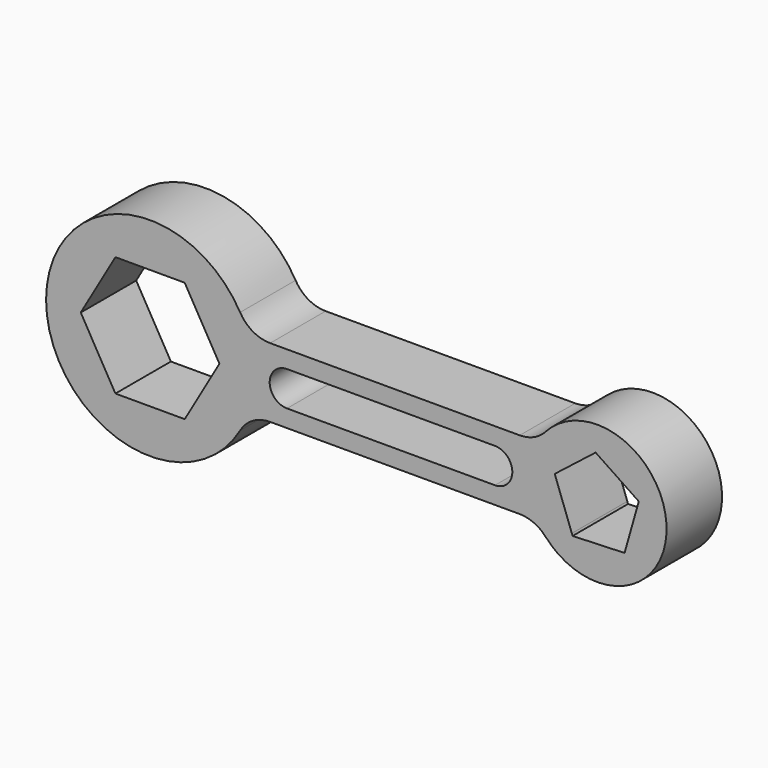
from build123d import *

# Parameters (mm, degrees)
F1_DEPTH = 25.4
F2_DEPTH = 508


with BuildPart() as f1:
    # F0 (on Front) → F1 (new body)
    with BuildSketch(Plane.XZ):
        with BuildLine():
            ThreePointArc((659.9113576837, -381), (736.0354796323, -197.2201123681), (762, 0))
            ThreePointArc((762, 0), (736.0354796323, 197.2201123681), (659.9113576837, 381))
            ThreePointArc((659.9113576837, 381), (-762, 0), (659.9113576837, -381))
        make_face()
        Polygon((-508, 0), (-254, 439.9409051225), (254, 439.9409051225), (508, 0), (254, -439.9409051225), (-254, -439.9409051225), align=None, mode=Mode.SUBTRACT)
        with BuildLine():
            ThreePointArc((659.9113576837, 381), (736.0354796323, 197.2201123681), (762, 0))
            ThreePointArc((762, 0), (736.0354796323, -197.2201123681), (659.9113576837, -381))
            ThreePointArc((659.9113576837, -381), (752.881810245, -288.0295474388), (879.881810245, -254))
            Line((879.881810245, -254), (2708.6387337151, -254))
            ThreePointArc((2708.6387337151, -254), (2812.3337994929, -276.1307839895), (2897.95915581, -338.6666666667))
            ThreePointArc((2897.95915581, -338.6666666667), (2768.6, 0), (2897.95915581, 338.6666666667))
            ThreePointArc((2897.95915581, 338.6666666667), (2812.3337994929, 276.1307839895), (2708.6387337151, 254))
            Line((2708.6387337151, 254), (1765.3, 254))
            Line((1765.3, 254), (879.881810245, 254))
            ThreePointArc((879.881810245, 254), (752.881810245, 288.0295474388), (659.9113576837, 381))
        make_face()
        with BuildLine():
            Line((1003.3, 127), (1765.3, 127))
            Line((1765.3, 127), (2527.3, 127))
            ThreePointArc((2527.3, 127), (2654.3, 0), (2527.3, -127))
            Line((2527.3, -127), (1003.3, -127))
            ThreePointArc((1003.3, -127), (876.3, 0), (1003.3, 127))
        make_face(mode=Mode.SUBTRACT)
        with BuildLine():
            ThreePointArc((2897.95915581, 338.6666666667), (2768.6, 0), (2897.95915581, -338.6666666667))
            ThreePointArc((2897.95915581, -338.6666666667), (3457.8656216047, -474.5595583531), (3784.6, 0))
            ThreePointArc((3784.6, 0), (3457.8656216047, 474.5595583531), (2897.95915581, 338.6666666667))
        make_face()
        Polygon((2997.3535592402, 0), (2964.8665166666, 88.6663506466), (3175.5526915513, 254), (3264.5957664928, 323.8755698507), (3580.9144590171, 111.4997596469), (3476.6809124478, -254.9649286515), (3095.9423453757, -269.0767514926), (3090.4182760524, -254), align=None, mode=Mode.SUBTRACT)
    extrude(amount=F1_DEPTH)

    # F0 (on Front) → F2 (join)
    with BuildSketch(Plane.XZ):
        with BuildLine():
            ThreePointArc((659.9113576837, -381), (736.0354796323, -197.2201123681), (762, 0))
            ThreePointArc((762, 0), (736.0354796323, 197.2201123681), (659.9113576837, 381))
            ThreePointArc((659.9113576837, 381), (-762, 0), (659.9113576837, -381))
        make_face()
        Polygon((-508, 0), (-254, 439.9409051225), (254, 439.9409051225), (508, 0), (254, -439.9409051225), (-254, -439.9409051225), align=None, mode=Mode.SUBTRACT)
        with BuildLine():
            ThreePointArc((659.9113576837, 381), (736.0354796323, 197.2201123681), (762, 0))
            ThreePointArc((762, 0), (736.0354796323, -197.2201123681), (659.9113576837, -381))
            ThreePointArc((659.9113576837, -381), (752.881810245, -288.0295474388), (879.881810245, -254))
            Line((879.881810245, -254), (2708.6387337151, -254))
            ThreePointArc((2708.6387337151, -254), (2812.3337994929, -276.1307839895), (2897.95915581, -338.6666666667))
            ThreePointArc((2897.95915581, -338.6666666667), (2768.6, 0), (2897.95915581, 338.6666666667))
            ThreePointArc((2897.95915581, 338.6666666667), (2812.3337994929, 276.1307839895), (2708.6387337151, 254))
            Line((2708.6387337151, 254), (1765.3, 254))
            Line((1765.3, 254), (879.881810245, 254))
            ThreePointArc((879.881810245, 254), (752.881810245, 288.0295474388), (659.9113576837, 381))
        make_face()
        with BuildLine():
            Line((1003.3, 127), (1765.3, 127))
            Line((1765.3, 127), (2527.3, 127))
            ThreePointArc((2527.3, 127), (2654.3, 0), (2527.3, -127))
            Line((2527.3, -127), (1003.3, -127))
            ThreePointArc((1003.3, -127), (876.3, 0), (1003.3, 127))
        make_face(mode=Mode.SUBTRACT)
        with BuildLine():
            ThreePointArc((2897.95915581, 338.6666666667), (2768.6, 0), (2897.95915581, -338.6666666667))
            ThreePointArc((2897.95915581, -338.6666666667), (3457.8656216047, -474.5595583531), (3784.6, 0))
            ThreePointArc((3784.6, 0), (3457.8656216047, 474.5595583531), (2897.95915581, 338.6666666667))
        make_face()
        Polygon((2997.3535592402, 0), (2964.8665166666, 88.6663506466), (3175.5526915513, 254), (3264.5957664928, 323.8755698507), (3580.9144590171, 111.4997596469), (3476.6809124478, -254.9649286515), (3095.9423453757, -269.0767514926), (3090.4182760524, -254), align=None, mode=Mode.SUBTRACT)
    extrude(amount=F2_DEPTH)


solid = f1.part
